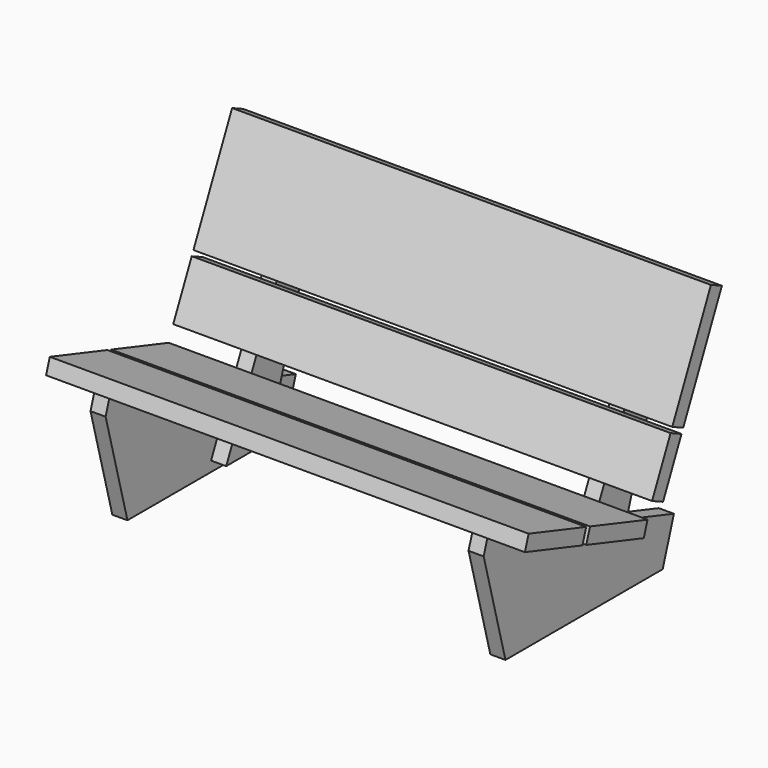
from build123d import *

# Parameters (mm, degrees)
F1_DEPTH = 38.1
F3_DEPTH = 38.1
F6_W     = 38.1
F6_H     = 273.05
F7_DEPTH = 38.1
F6_W_2   = 1022.35
F6_H_2   = 139.7
F6_W_3   = 146.05
F8_W     = 38.1
F8_H     = 171.45
F9_DEPTH = 38.1
F8_W_2   = 1060.45
F8_H_2   = 190.5
F8_W_3   = 107.95


with BuildPart() as f1:
    # F0 (on Right) → F1 (new body)
    with BuildSketch(Plane.YZ):
        Polygon((-68.7226475372, 257.6937867227), (0, 0), (495.3, 0), (530.4692307692, 108.7548399249), (-55.5985177152, 298.277916848), align=None)
    extrude(amount=F1_DEPTH)


with BuildPart() as f3:
    # F2 (on face) → F3 (new body)
    with BuildSketch(Plane(origin=(0, 0, 0), x_dir=(0, -1, 0), z_dir=(-1, 0, 0))):
        Polygon((-433.7982619471, 140.0163783865), (-331.2104274496, 173.1913178011), (-538.8416894006, 625.6090952361), (-582.3489066006, 599.3838773817), align=None)
        Polygon((-396.7335219852, 25.4), (-263.3835219852, 25.4), (-331.2104274496, 173.1913178011), (-433.7982619471, 140.0163783865), align=None)
    extrude(amount=F3_DEPTH)


with BuildPart() as f5_1:
    # F5: instance of F1
    add(f1.part.mirror(Plane.YZ.offset(-457.2)))


with BuildPart() as f5_2:
    # F5: instance of F3
    add(f3.part.mirror(Plane.YZ.offset(-457.2)))


with BuildPart() as f7:
    # F6 (on face) → F7 (new body)
    with BuildSketch(Plane(origin=(0, 207.9313582565, -95.4273957995), x_dir=(1, 0, 0), z_dir=(0, -0.9088568977, 0.417108067))):
        Polygon((146.05, 812.3943569238), (-1060.45, 812.3943569238), (-1060.45, 520.2943569238), (-38.1, 520.2943569238), (-38.1, 793.3443569238), (0, 793.3443569238), (0, 520.2943569238), (146.05, 520.2943569238), align=None)
        with Locations((-19.05, 656.8193569238)):
            Rectangle(F6_W, F6_H)
    extrude(amount=F7_DEPTH)


with BuildPart() as f7b:
    # F6 (on face) → F7, piece 2 (new body)
    with BuildSketch(Plane(origin=(0, 207.9313582565, -95.4273957995), x_dir=(1, 0, 0), z_dir=(0, -0.9088568977, 0.417108067))):
        with Locations((-549.275, 437.7443569238)):
            Rectangle(F6_W_2, F6_H_2)
        with Locations((73.025, 437.7443569238)):
            Rectangle(F6_W_3, F6_H_2)
        with Locations((-19.05, 437.7443569238)):
            Rectangle(F6_W, F6_H_2)
    extrude(amount=F7_DEPTH)


with BuildPart() as f9:
    # F8 (on face) → F9 (new body)
    with BuildSketch(Plane(origin=(0, 82.0615384615, 253.7612931582), x_dir=(1, 0, 0), z_dir=(0, 0.3076923077, 0.9514859136))):
        Polygon((-1060.45, 26.7709730081), (-1060.45, -163.7290269919), (146.05, -163.7290269919), (146.05, 26.7709730081), (38.1, 26.7709730081), (38.1, -144.6790269919), (0, -144.6790269919), (0, 26.7709730081), align=None)
        with Locations((19.05, -58.9540269919)):
            Rectangle(F8_W, F8_H)
    extrude(amount=F9_DEPTH)


with BuildPart() as f9b:
    # F8 (on face) → F9, piece 2 (new body)
    with BuildSketch(Plane(origin=(0, 82.0615384615, 253.7612931582), x_dir=(1, 0, 0), z_dir=(0, 0.3076923077, 0.9514859136))):
        with Locations((-530.225, 134.7209730081)):
            Rectangle(F8_W_2, F8_H_2)
        with Locations((92.075, 134.7209730081)):
            Rectangle(F8_W_3, F8_H_2)
        with Locations((19.05, 134.7209730081)):
            Rectangle(F8_W, F8_H_2)
    extrude(amount=F9_DEPTH)


solid = Compound([f1.part, f3.part, f5_1.part, f5_2.part, f7.part, f7b.part, f9.part, f9b.part])
